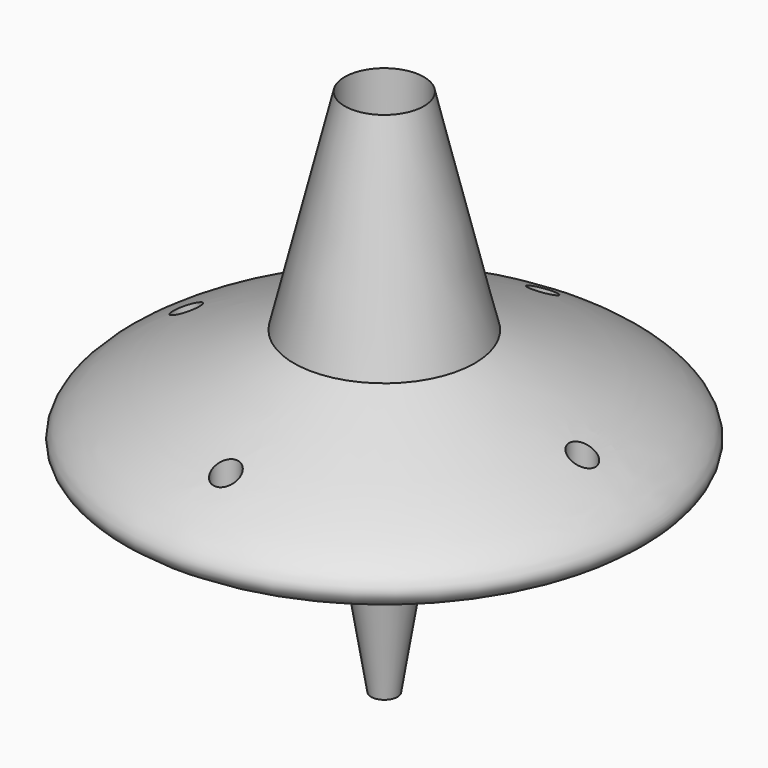
from build123d import *

# Parameters (mm, degrees)
F3_D = 3.175


with BuildPart() as f1:
    # F0 (on Front) → F1 (revolve)
    with BuildSketch(Plane.XZ):
        with BuildLine():
            Line((0, 19.685), (1.5875, 19.685))
            Line((1.5875, 19.685), (1.5875, 0))
            Line((1.5875, 0), (4.7625, 19.685))
            add(Edge.make_bspline(
                [(4.7625, 19.685), (17.5490049273, 21.5827272744), (43.9236465459, 25.0003354487), (21.3817688144, 34.1267210228), (10.8833632964, 38.3495089923)],
                knots=[0, 0, 0, 0, 0.519162586, 1, 1, 1, 1], degree=3))
            Line((10.8833632964, 38.3495089923), (4.7625, 63.5781016886))
            Line((4.7625, 63.5781016886), (4.7625, 54.0531016886))
            Line((4.7625, 54.0531016886), (0, 54.0531016886))
            Line((0, 54.0531016886), (0, 19.685))
        make_face()
    revolve(axis=Axis((0, 0, 36.8690508443), (0, 0, -1)))

    # F3 (through all)
    with Locations(Plane(origin=(0, 0, 0), x_dir=(1, 0, 0), z_dir=(0, 0, -1))):
        with Locations((0, -23.8125), (23.8125, 0), (0, 23.8125), (-23.8125, 0)):
            Hole(F3_D / 2)


solid = f1.part
